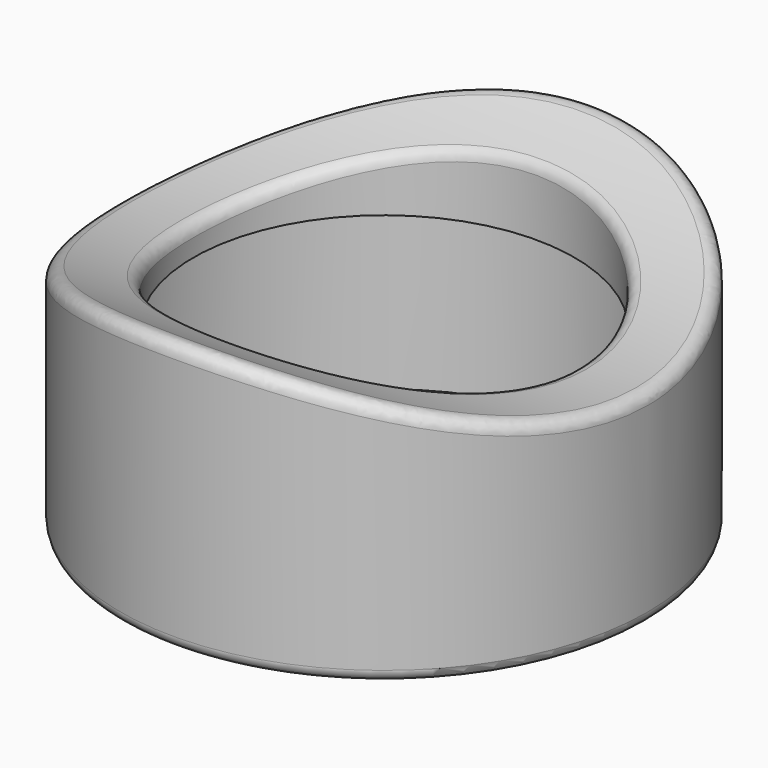
from build123d import *

# Parameters (mm, degrees)
SKETCH_R        = 9
SKETCH_R_2      = 6.5
PAD_DEPTH       = 10
SKETCH001_R     = 18
POCKET_DEPTH    = 9
SKETCH002_R     = 8
POCKET001_DEPTH = 6
FILLET_R        = 0.4
FILLET001_R     = 0.4


with BuildPart() as part:
    # Sketch → Pad (new body)
    with BuildSketch(Plane.XY):
        Circle(SKETCH_R)
        Circle(SKETCH_R_2, mode=Mode.SUBTRACT)
    extrude(amount=PAD_DEPTH)

    # Sketch001 → Pocket (cut, symmetric)
    with BuildSketch(Plane.YZ):
        with Locations((0, 25)):
            Circle(SKETCH001_R)
    extrude(amount=POCKET_DEPTH, both=True, mode=Mode.SUBTRACT)

    # Sketch002 → Pocket001 (cut)
    with BuildSketch(Plane.XY):
        Circle(SKETCH002_R)
    extrude(amount=POCKET001_DEPTH, mode=Mode.SUBTRACT)

    # Fillet
    fillet_edges = [part.edges().sort_by_distance(p)[0] for p in [
        (0, 9, 9.411543),
        (-6.5, 0, 7),
        (0, -9, 9.411543),
    ]]
    fillet(fillet_edges, radius=FILLET_R)

    # Fillet001
    fillet001_edges = [part.edges().sort_by_distance(p)[0] for p in [
        (-9, 0, 0),
    ]]
    fillet(fillet001_edges, radius=FILLET001_R)


solid = part.part
